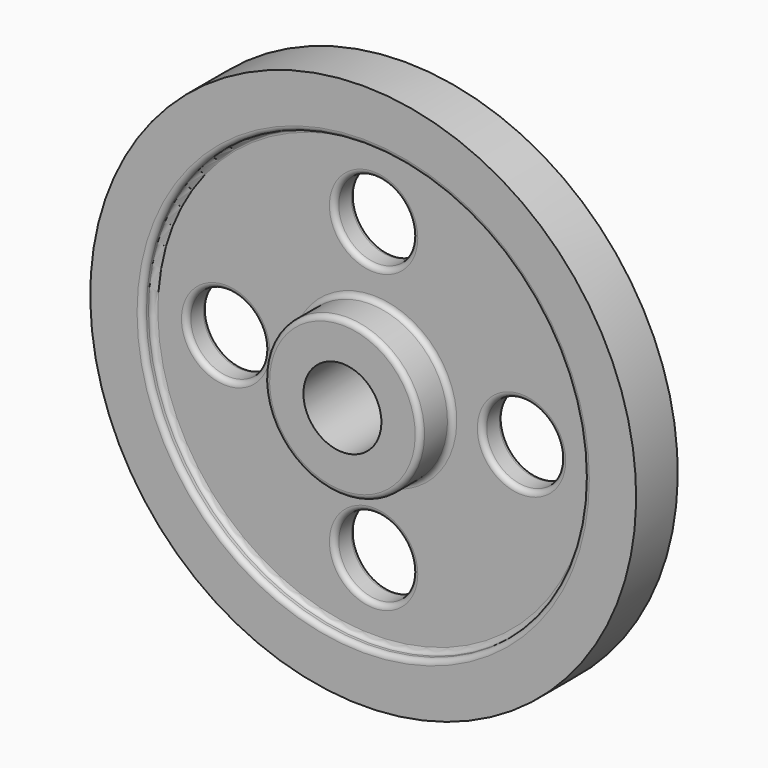
from build123d import *

# Parameters (mm, degrees)
F2_R     = 19.05
F3_DEPTH = 25.4
F4_DEPTH = 25.4
F5_R     = 2.54


with BuildPart() as f1:
    # F0 (on Right) → F1 (revolve)
    with BuildSketch(Plane.YZ):
        Polygon((25.4, 38.1), (6.35, 38.1), (6.35, 107.95), (12.7, 107.95), (12.7, 133.35), (0, 133.35), (-12.7, 133.35), (-12.7, 107.95), (-6.35, 107.95), (-6.35, 38.1), (-25.4, 38.1), (-25.4, 19.05), (0, 19.05), (25.4, 19.05), align=None)
    revolve(axis=Axis((0, 38.1000004709, 0), (0, 1, 0)))

    # F2 (on face) → F3 (cut)
    with BuildSketch(Plane.XZ.offset(25.4)):
        with BuildLine():
            ThreePointArc((0, 53.225698185), (13.4703841816, 58.8053140034), (19.05, 72.275698185))
            ThreePointArc((19.05, 72.275698185), (-13.4703841816, 85.7460823666), (0, 53.225698185))
        make_face()
        with Locations((-72.275698185, 0)):
            Circle(F2_R)
        with Locations((0, -72.275698185)):
            Circle(F2_R)
        with Locations((72.275698185, 0)):
            Circle(F2_R)
    extrude(amount=-F3_DEPTH, mode=Mode.SUBTRACT)

    # F4 (cut): faces of the model
    f4_faces = [f1.faces().sort_by_distance(p)[0] for p in [
        (-72.275698185, 0, 0),
        (72.275698185, 0, 0),
        (0, 0, -72.275698185),
        (0, 0, 72.275698185),
    ]]
    extrude(f4_faces, amount=-F4_DEPTH, mode=Mode.SUBTRACT)

    # F5
    f5_edges = [f1.edges().sort_by_distance(p)[0] for p in [
        (0, -6.35, -107.95),
        (0, 25.4, -38.1),
        (0, 6.35, -38.1),
        (0, 6.35, -107.95),
        (-91.325698, 6.35, 0),
        (0, 6.35, 91.325698),
        (-19.05, 6.35, -72.275698),
        (53.225698, 6.35, 0),
        (0, 12.7, -107.95),
        (-91.325698, -6.35, 0),
        (-19.05, -6.35, -72.275698),
        (0, -6.35, -38.1),
        (0, -6.35, 91.325698),
        (53.225698, -6.35, 0),
        (0, -25.4, -38.1),
        (0, -12.7, -107.95),
    ]]
    fillet(f5_edges, radius=F5_R)


solid = f1.part
